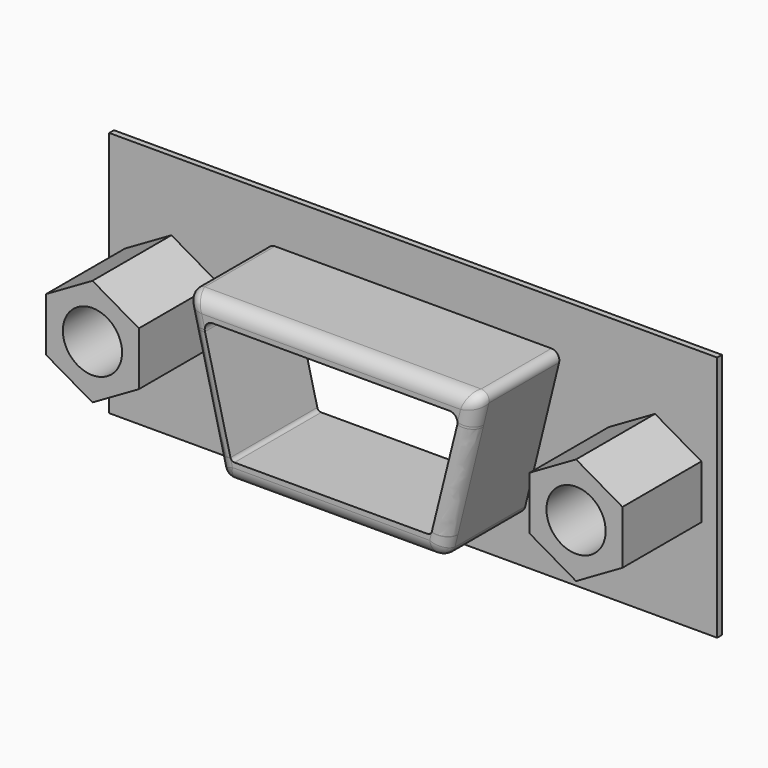
from build123d import *

# Parameters (mm, degrees)
SKETCH092_W             = 30.8
SKETCH092_H             = 12.5
PAD112_DEPTH            = 0.3
POCKET002_DEPTH         = 0.3
PAD113_DEPTH            = 5.5
POCKET003_DEPTH         = 5.5
FILLET014_R             = 0.75
SKETCH011_R             = 1.5
PAD114_DEPTH            = 5
BODY029_PLACEMENT_ANGLE = 180


with BuildPart() as part:
    # Sketch092 → Pad112 (new body)
    with BuildSketch(Plane(origin=(0, 3, 0), x_dir=(-1, 0, 0), z_dir=(0, 1, 0))):
        with Locations((0, 6.25)):
            Rectangle(SKETCH092_W, SKETCH092_H)
    extrude(amount=PAD112_DEPTH)

    # Sketch091 → Pocket002 (cut)
    with BuildSketch(Plane(origin=(0, 3, 0), x_dir=(-1, 0, 0), z_dir=(0, 1, 0))):
        with BuildLine():
            Line((-7, 10.175), (7, 10.175))
            ThreePointArc((7.391964, 9.675), (7.317662, 10.020388), (7, 10.175))
            Line((7.391964, 9.675), (5.67688, 2.69884))
            ThreePointArc((5.2, 2.325), (5.502973, 2.4296), (5.67688, 2.69884))
            Line((5.2, 2.325), (-5.2, 2.325))
            ThreePointArc((-5.67688, 2.69884), (-5.502973, 2.4296), (-5.2, 2.325))
            Line((-5.67688, 2.69884), (-7.391964, 9.675))
            ThreePointArc((-7, 10.175), (-7.317662, 10.020388), (-7.391964, 9.675))
        make_face()
    extrude(amount=POCKET002_DEPTH, mode=Mode.SUBTRACT)

    # Sketch091 → Pad113 (join)
    with BuildSketch(Plane(origin=(0, 3, 0), x_dir=(-1, 0, 0), z_dir=(0, 1, 0))):
        with BuildLine():
            Line((-7, 10.175), (7, 10.175))
            ThreePointArc((7.391964, 9.675), (7.317662, 10.020388), (7, 10.175))
            Line((7.391964, 9.675), (5.67688, 2.69884))
            ThreePointArc((5.2, 2.325), (5.502973, 2.4296), (5.67688, 2.69884))
            Line((5.2, 2.325), (-5.2, 2.325))
            ThreePointArc((-5.67688, 2.69884), (-5.502973, 2.4296), (-5.2, 2.325))
            Line((-5.67688, 2.69884), (-7.391964, 9.675))
            ThreePointArc((-7, 10.175), (-7.317662, 10.020388), (-7.391964, 9.675))
        make_face()
    extrude(amount=PAD113_DEPTH)

    # Sketch093 → Pocket003 (cut)
    with BuildSketch(Plane(origin=(0, 3, 0), x_dir=(-1, 0, 0), z_dir=(0, 1, 0))):
        with BuildLine():
            Line((-6, 9.18), (6, 9.18))
            ThreePointArc((6.390856, 8.68), (6.31732, 9.025285), (6, 9.18))
            Line((6.390856, 8.68), (5.098578, 3.485231))
            ThreePointArc((4.9, 3.33), (5.026026, 3.373413), (5.098578, 3.485231))
            Line((4.9, 3.33), (-4.9, 3.33))
            ThreePointArc((-5.098578, 3.485231), (-5.026026, 3.373413), (-4.9, 3.33))
            Line((-5.098578, 3.485231), (-6.390856, 8.68))
            ThreePointArc((-6, 9.18), (-6.31732, 9.025285), (-6.390856, 8.68))
        make_face()
    extrude(amount=POCKET003_DEPTH, mode=Mode.SUBTRACT)

    # Fillet014
    fillet014_edges = [part.edges().sort_by_distance(p)[0] for p in [
        (0, 8.5, 10.175),
        (7.317662, 8.5, 10.020388),
        (6.534422, 8.5, 6.18692),
        (5.502973, 8.5, 2.4296),
        (0, 8.5, 2.325),
        (-5.502973, 8.5, 2.4296),
        (-6.534422, 8.5, 6.18692),
        (-7.317662, 8.5, 10.020388),
    ]]
    fillet(fillet014_edges, radius=FILLET014_R)

    # Sketch011 → Pad114 (join)
    with BuildSketch(Plane(origin=(0, 3.3, 0), x_dir=(-1, 0, 0), z_dir=(0, 1, 0))):
        Polygon((-9.9, 4.893227), (-9.9, 7.606773), (-12.25, 8.963546), (-14.6, 7.606773), (-14.6, 4.893227), (-12.25, 3.536454), align=None)
        with Locations((-12.25, 6.25)):
            Circle(SKETCH011_R, mode=Mode.SUBTRACT)
        Polygon((14.6, 4.893227), (14.6, 7.606773), (12.25, 8.963546), (9.9, 7.606773), (9.9, 4.893227), (12.25, 3.536454), align=None)
        with Locations((12.25, 6.25)):
            Circle(SKETCH011_R, mode=Mode.SUBTRACT)
    extrude(amount=PAD114_DEPTH)


with BuildPart() as part_1:
    # Body029 placement: moved
    add(part.part.moved(Location((5.3, 0, 0))).rotate(Axis((5.3, 0, 0), (0, 0, 1)), BODY029_PLACEMENT_ANGLE))


solid = part_1.part
